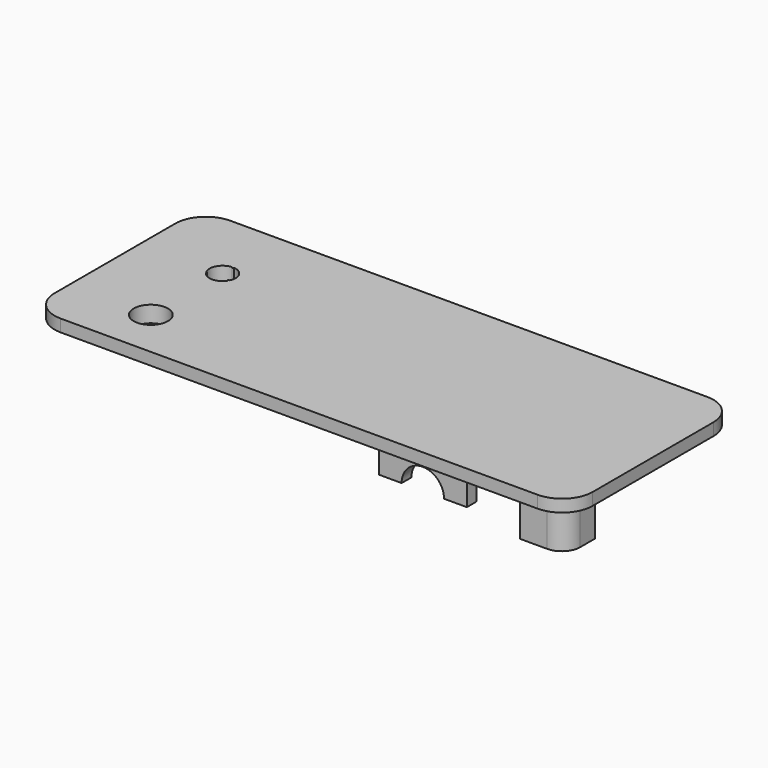
from build123d import *

# Parameters (mm, degrees)
PAD002_DEPTH  = 1.5
PAD003_DEPTH  = 0.5
SKETCH005_R   = 1.025
PAD004_DEPTH  = 4.6
SKETCH006_R   = 2.1
POCKET_DEPTH  = 2
SKETCH008_R   = 2
SKETCH008_R_2 = 1.6
PAD005_DEPTH  = 3
PAD014_DEPTH  = 1.5


with BuildPart() as part:
    # Sketch003 → Pad002 (new body)
    with BuildSketch(Plane.XY.offset(6)):
        with BuildLine():
            Line((-29.25, 13), (29.25, 13))
            ThreePointArc((33, 9.25), (31.9016504294, 11.9016504294), (29.25, 13))
            Line((33, 9.25), (33, -9.25))
            ThreePointArc((29.25, -13), (31.9016504295, -11.9016504294), (33, -9.25))
            Line((29.25, -13), (-29.25, -13))
            ThreePointArc((-33, -9.25), (-31.9016504294, -11.9016504295), (-29.25, -13))
            Line((-33, -9.25), (-33, 9.25))
            ThreePointArc((-29.25, 13), (-31.9016504294, 11.9016504294), (-33, 9.25))
        make_face()
    extrude(amount=PAD002_DEPTH)

    # Sketch004 → Pad003 (new body)
    with BuildSketch(Plane(origin=(0, 0, 6), x_dir=(1, 0, 0), z_dir=(0, 0, -1))):
        with BuildLine():
            Line((-29.05, 11.3), (29.05, 11.3))
            ThreePointArc((31.3, 9.05), (30.6409902577, 10.6409902577), (29.05, 11.3))
            Line((31.3, 9.05), (31.3, -9.05))
            ThreePointArc((29.05, -11.3), (30.6409902577, -10.6409902577), (31.3, -9.05))
            Line((29.05, -11.3), (-29.05, -11.3))
            ThreePointArc((-31.3, -9.05), (-30.6409902577, -10.6409902577), (-29.05, -11.3))
            Line((-31.3, -9.05), (-31.3, 9.05))
            ThreePointArc((-29.05, 11.3), (-30.6409902577, 10.6409902577), (-31.3, 9.05))
        make_face()
    extrude(amount=PAD003_DEPTH)

    # Sketch005 → Pad004 (new body)
    with BuildSketch(Plane(origin=(0, 0, 5.5), x_dir=(1, 0, 0), z_dir=(0, 0, -1))):
        with BuildLine():
            Line((-25.75, -9), (-25.75, -11.3))
            Line((-25.75, -11.3), (-29.05, -11.3))
            ThreePointArc((-31.3, -9.05), (-30.6409902577, -10.6409902577), (-29.05, -11.3))
            Line((-31.3, -6.75), (-31.3, -9.05))
            Line((-27.9999999923, -6.75), (-31.3, -6.75))
            ThreePointArc((-25.75, -9.0000000077), (-26.4090097369, -7.4090097478), (-27.9999999923, -6.75))
        make_face()
        with Locations((-28, -9)):
            Circle(SKETCH005_R, mode=Mode.SUBTRACT)
        with BuildLine():
            ThreePointArc((25.75, 9), (26.4090097423, 7.4090097423), (28, 6.75))
            Line((28, 6.75), (31.3, 6.75))
            Line((31.3, 9.05), (31.3, 6.75))
            ThreePointArc((31.3, 9.05), (30.6409902577, 10.6409902577), (29.05, 11.3))
            Line((29.05, 11.3), (25.75, 11.3))
            Line((25.75, 11.3), (25.75, 9))
        make_face()
        with Locations((28, 9)):
            Circle(SKETCH005_R, mode=Mode.SUBTRACT)
    extrude(amount=PAD004_DEPTH)

    # Sketch006 → Pocket (cut)
    with BuildSketch(Plane.XY.offset(7.5)):
        with Locations((-23, -7)):
            Circle(SKETCH006_R)
        with BuildLine():
            ThreePointArc((-24.3288922086, 3.1089076939), (-23.0026761128, 2.400002238), (-21.6740960519, 3.1044673539))
            ThreePointArc((-21.5638430432, 3.2946963807), (-21.7108688116, 3.2528448762), (-21.6740960519, 3.1044673539))
            ThreePointArc((-21.5638430432, 3.2946963807), (-21.6130238799, 4.7976824194), (-22.8873953748, 5.5960326433))
            ThreePointArc((-23.1072650483, 5.5964003913), (-22.9975078699, 5.4899979159), (-22.8873953748, 5.5960326433))
            ThreePointArc((-23.1072650483, 5.5964003913), (-24.3843000035, 4.8023175806), (-24.4385082583, 3.2995044678))
            ThreePointArc((-24.3288922086, 3.1089076939), (-24.2916233116, 3.2571613762), (-24.4385082583, 3.2995044678))
        make_face()
    extrude(amount=-POCKET_DEPTH, mode=Mode.SUBTRACT)

    # Sketch008 → Pad005 (new body)
    with BuildSketch(Plane(origin=(0, 0, 5.5), x_dir=(1, 0, 0), z_dir=(0, 0, -1))):
        with Locations((-23, -4)):
            Circle(SKETCH008_R)
        with Locations((-23, -4)):
            Circle(SKETCH008_R_2, mode=Mode.SUBTRACT)
    extrude(amount=PAD005_DEPTH)

    # Sketch023 → Pad014 (new body)
    with BuildSketch(Plane(origin=(0, -11.3, 6), x_dir=(1, 0, 0), z_dir=(0, -1, 0))):
        with BuildLine():
            Line((9.6, 0), (20.4, 0))
            Line((20.4, 0), (20.4, -2.8))
            Line((20.4, -2.8), (17.6, -2.8))
            ThreePointArc((17.6, -2.8), (15, -0.2), (12.4, -2.8))
            Line((12.4, -2.8), (9.6, -2.8))
            Line((9.6, -2.8), (9.6, 0))
        make_face()
    extrude(amount=PAD014_DEPTH)


solid = part.part
